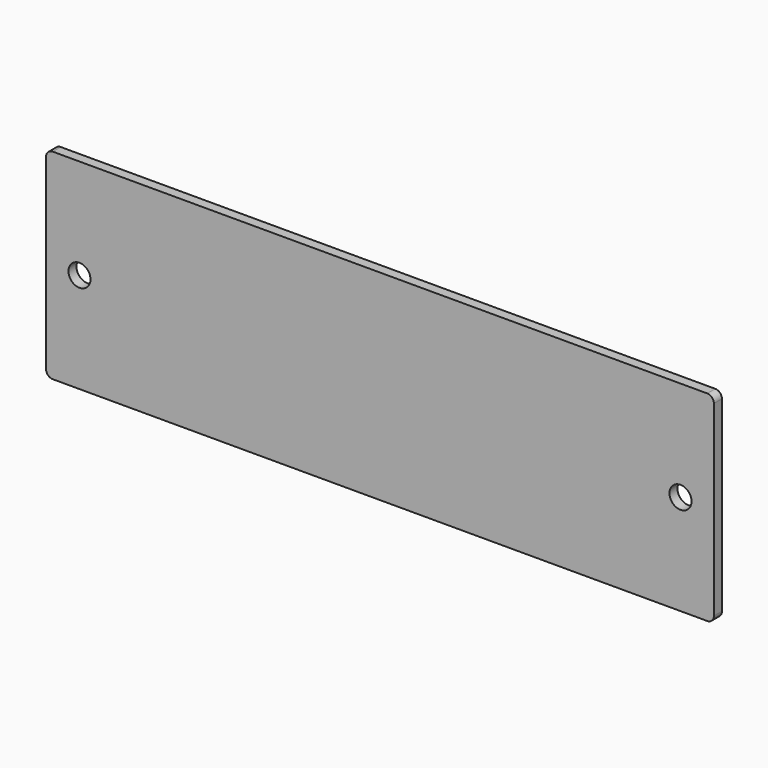
from build123d import *

# Parameters (mm, degrees)
F0_R     = 1.65
F1_DEPTH = 1.5
F2_R     = 1


with BuildPart() as f1:
    # F0 (on Front) → F1 (new body)
    with BuildSketch(Plane.XZ):
        Polygon((0, 15), (-50, 15), (-50, -15), (0, -15), (50, -15), (50, 15), align=None)
        with Locations((-45, 0)):
            Circle(F0_R, mode=Mode.SUBTRACT)
        with Locations((45, 0)):
            Circle(F0_R, mode=Mode.SUBTRACT)
    extrude(amount=F1_DEPTH)

    # F2
    f2_edges = [f1.edges().sort_by_distance(p)[0] for p in [
        (50, -0.75, 15),
        (50, -0.75, -15),
        (-50, -0.75, 15),
        (-50, -0.75, -15),
    ]]
    fillet(f2_edges, radius=F2_R)


solid = f1.part
